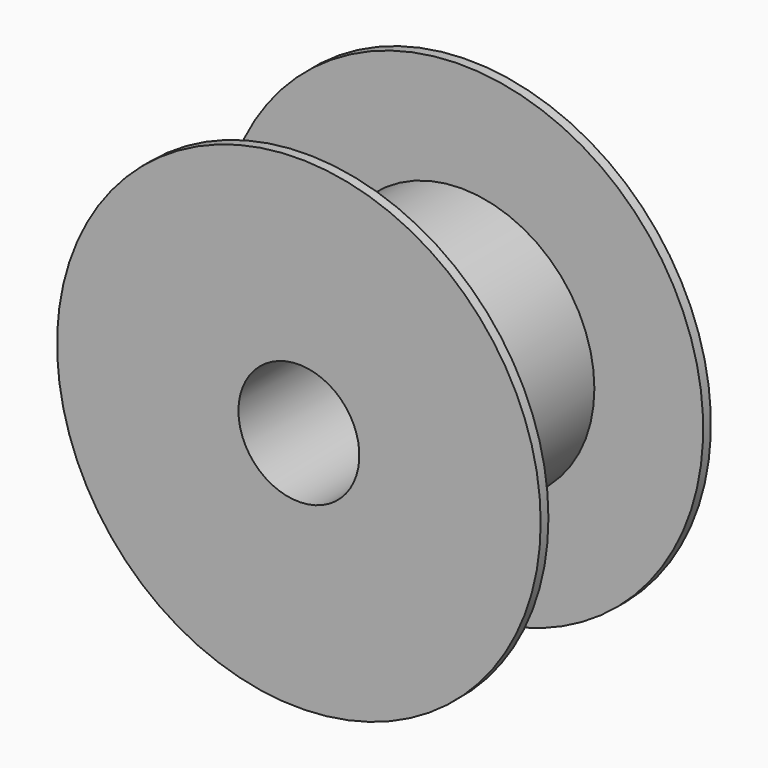
from build123d import *

# Parameters (mm, degrees)
F0_R     = 100
F1_DEPTH = 4
F2_R     = 55
F3_DEPTH = 84
F4_R     = 100
F4_R_2   = 55
F5_DEPTH = 4
F6_R     = 25
F7_DEPTH = 88


with BuildPart() as f1:
    # F0 (on Front) → F1 (new body)
    with BuildSketch(Plane.XZ):
        Circle(F0_R)
    extrude(amount=F1_DEPTH)

    # F2 (on face) → F3 (join)
    with BuildSketch(Plane(origin=(0, 0, 0), x_dir=(-1, 0, 0), z_dir=(0, 1, 0))):
        Circle(F2_R)
    extrude(amount=F3_DEPTH)

    # F4 (on face) → F5 (join)
    with BuildSketch(Plane(origin=(0, 84, 0), x_dir=(-1, 0, 0), z_dir=(0, 1, 0))):
        Circle(F4_R)
        Circle(F4_R_2, mode=Mode.SUBTRACT)
    extrude(amount=-F5_DEPTH)

    # F6 (on face) → F7 (cut, through all)
    with BuildSketch(Plane(origin=(0, 84, 0), x_dir=(-1, 0, 0), z_dir=(0, 1, 0))):
        Circle(F6_R)
    extrude(amount=-F7_DEPTH, mode=Mode.SUBTRACT)


solid = f1.part
